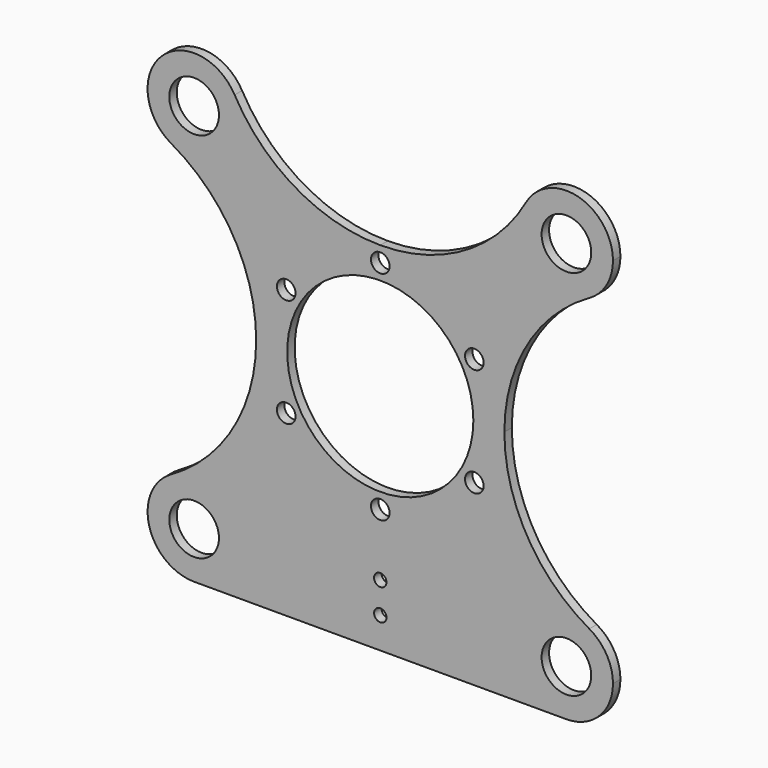
from build123d import *

# Parameters (mm, degrees)
F0_R     = 8
F0_R_2   = 3
F0_R_3   = 30
F0_R_4   = 2
F1_DEPTH = 3


with BuildPart() as f1:
    # F0 (on Front) → F1 (new body)
    with BuildSketch(Plane.XZ):
        with BuildLine():
            ThreePointArc((-45, 60), (-45.493882, 63.817399), (-46.943005, 67.38342))
            ThreePointArc((-46.943005, 67.38342), (-70.606602, 70.606602), (-67.38342, 46.943005))
            ThreePointArc((-67.38342, 46.943005), (-52.441935, 47.043316), (-45, 60))
        make_face()
        with Locations((-60, 60)):
            Circle(F0_R, mode=Mode.SUBTRACT)
        with BuildLine():
            ThreePointArc((-40, 0), (-28.284271, 28.284271), (0, 40))
            ThreePointArc((0, 40), (-27.173045, 47.346209), (-46.943005, 67.38342))
            ThreePointArc((-46.943005, 67.38342), (-45.493882, 63.817399), (-45, 60))
            ThreePointArc((-45, 60), (-52.441935, 47.043316), (-67.38342, 46.943005))
            ThreePointArc((-67.38342, 46.943005), (-47.346209, 27.173045), (-40, 0))
        make_face()
        with BuildLine():
            ThreePointArc((-40, 0), (0, -40), (40, 0))
            ThreePointArc((40, 0), (28.284271, 28.284271), (0, 40))
            ThreePointArc((0, 40), (-28.284271, 28.284271), (-40, 0))
        make_face()
        with Locations((-30.310889, -17.5)):
            Circle(F0_R_2, mode=Mode.SUBTRACT)
        with Locations((0, -35)):
            Circle(F0_R_2, mode=Mode.SUBTRACT)
        with Locations((30.310889, -17.5)):
            Circle(F0_R_2, mode=Mode.SUBTRACT)
        with Locations((-30.310889, 17.5)):
            Circle(F0_R_2, mode=Mode.SUBTRACT)
        Circle(F0_R_3, mode=Mode.SUBTRACT)
        with Locations((30.310889, 17.5)):
            Circle(F0_R_2, mode=Mode.SUBTRACT)
        with Locations((0, 35)):
            Circle(F0_R_2, mode=Mode.SUBTRACT)
        with BuildLine():
            ThreePointArc((0, 40), (28.284271, 28.284271), (40, 0))
            ThreePointArc((40, 0), (47.346209, 27.173045), (67.38342, 46.943005))
            ThreePointArc((67.38342, 46.943005), (49.393398, 49.393398), (46.943005, 67.38342))
            ThreePointArc((46.943005, 67.38342), (27.173045, 47.346209), (0, 40))
        make_face()
        with BuildLine():
            ThreePointArc((46.943005, 67.38342), (49.393398, 49.393398), (67.38342, 46.943005))
            ThreePointArc((67.38342, 46.943005), (72.956684, 52.441935), (75, 60))
            ThreePointArc((75, 60), (63.817399, 74.506118), (46.943005, 67.38342))
        make_face()
        with Locations((60, 60)):
            Circle(F0_R, mode=Mode.SUBTRACT)
        with BuildLine():
            ThreePointArc((67.38342, -46.943005), (47.346209, -27.173045), (40, 0))
            ThreePointArc((40, 0), (0, -40), (-40, 0))
            ThreePointArc((-40, 0), (-47.346209, -27.173045), (-67.38342, -46.943005))
            ThreePointArc((-67.38342, -46.943005), (-52.441935, -47.043316), (-45, -60))
            ThreePointArc((-45, -60), (-49.393398, -70.606602), (-60, -75))
            Line((-60, -75), (60, -75))
            ThreePointArc((60, -75), (45.493882, -56.182601), (67.38342, -46.943005))
        make_face()
        with Locations((0, -65)):
            Circle(F0_R_4, mode=Mode.SUBTRACT)
        with Locations((0, -55)):
            Circle(F0_R_4, mode=Mode.SUBTRACT)
        with BuildLine():
            ThreePointArc((-45, -60), (-52.441935, -47.043316), (-67.38342, -46.943005))
            ThreePointArc((-67.38342, -46.943005), (-74.506118, -63.817399), (-60, -75))
            ThreePointArc((-60, -75), (-49.393398, -70.606602), (-45, -60))
        make_face()
        with Locations((-60, -60)):
            Circle(F0_R, mode=Mode.SUBTRACT)
        with BuildLine():
            ThreePointArc((75, -60), (72.956684, -52.441935), (67.38342, -46.943005))
            ThreePointArc((67.38342, -46.943005), (45.493882, -56.182601), (60, -75))
            ThreePointArc((60, -75), (70.606602, -70.606602), (75, -60))
        make_face()
        with Locations((60, -60)):
            Circle(F0_R, mode=Mode.SUBTRACT)
    extrude(amount=F1_DEPTH)


solid = f1.part
